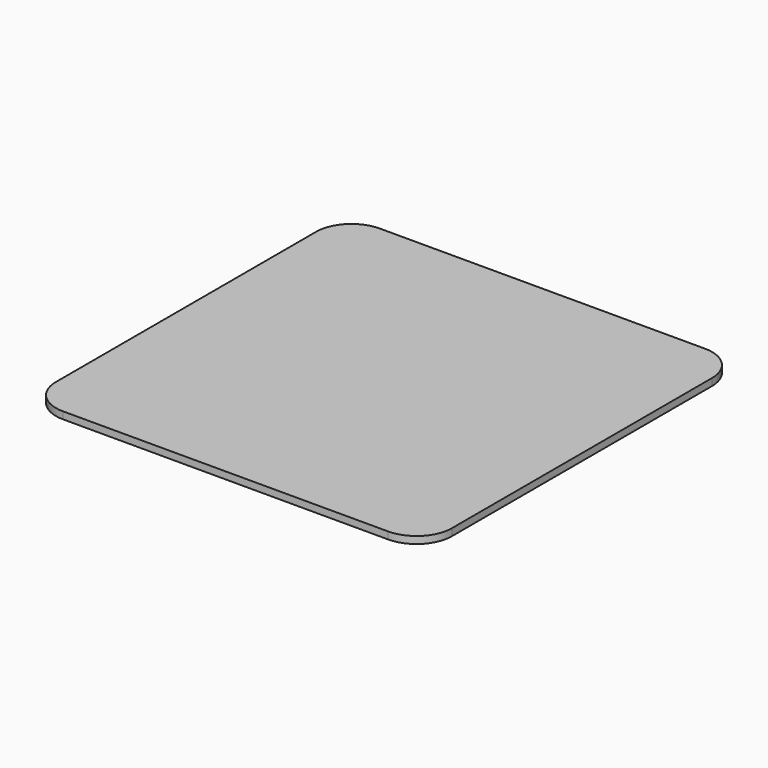
from build123d import *

# Parameters (mm, degrees)
F0_R     = 10.5
F1_DEPTH = 1
F2_R     = 10.5
F3_DEPTH = 1


with BuildPart() as f1:
    # F0 (on Top) → F1 (new body)
    with BuildSketch(Plane.XY):
        with BuildLine():
            ThreePointArc((-114.9745469093, 28.0742291808), (-117.9034790975, 35.1452969927), (-124.9745469093, 38.0742291808))
            Line((-124.9745469093, 38.0742291808), (-216.9745469093, 38.0742291808))
            ThreePointArc((-216.9745469093, 38.0742291808), (-224.0456147212, 35.1452969927), (-226.9745469093, 28.0742291808))
            Line((-226.9745469093, 28.0742291808), (-226.9745469093, -63.9257708192))
            ThreePointArc((-226.9745469093, -63.9257708192), (-224.0456147212, -70.9968386311), (-216.9745469093, -73.9257708192))
            Line((-216.9745469093, -73.9257708192), (-124.9745469093, -73.9257708192))
            ThreePointArc((-124.9745469093, -73.9257708192), (-117.9034790975, -70.9968386311), (-114.9745469093, -63.9257708192))
            Line((-114.9745469093, -63.9257708192), (-114.9745469093, 28.0742291808))
        make_face()
        with Locations((-214.898198111, -61.8065597154)):
            Circle(F0_R, mode=Mode.SUBTRACT)
        with Locations((-192.898198111, -61.8065597154)):
            Circle(F0_R, mode=Mode.SUBTRACT)
        with Locations((-214.898198111, -39.8065597154)):
            Circle(F0_R, mode=Mode.SUBTRACT)
        with Locations((-192.898198111, -39.8065597154)):
            Circle(F0_R, mode=Mode.SUBTRACT)
        with Locations((-170.898198111, -61.8065597154)):
            Circle(F0_R, mode=Mode.SUBTRACT)
        with Locations((-148.898198111, -61.8065597154)):
            Circle(F0_R, mode=Mode.SUBTRACT)
        with Locations((-126.898198111, -61.8065597154)):
            Circle(F0_R, mode=Mode.SUBTRACT)
        with Locations((-170.898198111, -39.8065597154)):
            Circle(F0_R, mode=Mode.SUBTRACT)
        with Locations((-148.898198111, -39.8065597154)):
            Circle(F0_R, mode=Mode.SUBTRACT)
        with Locations((-126.898198111, -39.8065597154)):
            Circle(F0_R, mode=Mode.SUBTRACT)
        with Locations((-214.898198111, -17.8065597154)):
            Circle(F0_R, mode=Mode.SUBTRACT)
        with Locations((-214.898198111, 4.1934402846)):
            Circle(F0_R, mode=Mode.SUBTRACT)
        with Locations((-192.898198111, -17.8065597154)):
            Circle(F0_R, mode=Mode.SUBTRACT)
        with Locations((-192.898198111, 4.1934402846)):
            Circle(F0_R, mode=Mode.SUBTRACT)
        with Locations((-214.898198111, 26.1934402846)):
            Circle(F0_R, mode=Mode.SUBTRACT)
        with Locations((-192.898198111, 26.1934402846)):
            Circle(F0_R, mode=Mode.SUBTRACT)
        with Locations((-170.898198111, -17.8065597154)):
            Circle(F0_R, mode=Mode.SUBTRACT)
        with Locations((-148.898198111, -17.8065597154)):
            Circle(F0_R, mode=Mode.SUBTRACT)
        with Locations((-170.898198111, 4.1934402846)):
            Circle(F0_R, mode=Mode.SUBTRACT)
        with Locations((-148.898198111, 4.1934402846)):
            Circle(F0_R, mode=Mode.SUBTRACT)
        with Locations((-126.898198111, -17.8065597154)):
            Circle(F0_R, mode=Mode.SUBTRACT)
        with Locations((-126.898198111, 4.1934402846)):
            Circle(F0_R, mode=Mode.SUBTRACT)
        with Locations((-170.898198111, 26.1934402846)):
            Circle(F0_R, mode=Mode.SUBTRACT)
        with Locations((-148.898198111, 26.1934402846)):
            Circle(F0_R, mode=Mode.SUBTRACT)
        with Locations((-126.898198111, 26.1934402846)):
            Circle(F0_R, mode=Mode.SUBTRACT)
    extrude(amount=F1_DEPTH)

    # F2 (on face) → F3 (join)
    with BuildSketch(Plane.XY.offset(1)):
        with BuildLine():
            ThreePointArc((-114.9745469093, 28.0742291808), (-117.9034790975, 35.1452969927), (-124.9745469093, 38.0742291808))
            Line((-124.9745469093, 38.0742291808), (-216.9745469093, 38.0742291808))
            ThreePointArc((-216.9745469093, 38.0742291808), (-224.0456147212, 35.1452969927), (-226.9745469093, 28.0742291808))
            Line((-226.9745469093, 28.0742291808), (-226.9745469093, -63.9257708192))
            ThreePointArc((-226.9745469093, -63.9257708192), (-224.0456147212, -70.9968386311), (-216.9745469093, -73.9257708192))
            Line((-216.9745469093, -73.9257708192), (-124.9745469093, -73.9257708192))
            ThreePointArc((-124.9745469093, -73.9257708192), (-117.9034790975, -70.9968386311), (-114.9745469093, -63.9257708192))
            Line((-114.9745469093, -63.9257708192), (-114.9745469093, 28.0742291808))
        make_face()
        with Locations((-214.898198111, -61.8065597154)):
            Circle(F2_R, mode=Mode.SUBTRACT)
        with Locations((-192.898198111, -61.8065597154)):
            Circle(F2_R, mode=Mode.SUBTRACT)
        with Locations((-214.898198111, -39.8065597154)):
            Circle(F2_R, mode=Mode.SUBTRACT)
        with Locations((-192.898198111, -39.8065597154)):
            Circle(F2_R, mode=Mode.SUBTRACT)
        with Locations((-170.898198111, -61.8065597154)):
            Circle(F2_R, mode=Mode.SUBTRACT)
        with Locations((-148.898198111, -61.8065597154)):
            Circle(F2_R, mode=Mode.SUBTRACT)
        with Locations((-126.898198111, -61.8065597154)):
            Circle(F2_R, mode=Mode.SUBTRACT)
        with Locations((-170.898198111, -39.8065597154)):
            Circle(F2_R, mode=Mode.SUBTRACT)
        with Locations((-148.898198111, -39.8065597154)):
            Circle(F2_R, mode=Mode.SUBTRACT)
        with Locations((-126.898198111, -39.8065597154)):
            Circle(F2_R, mode=Mode.SUBTRACT)
        with Locations((-214.898198111, -17.8065597154)):
            Circle(F2_R, mode=Mode.SUBTRACT)
        with Locations((-214.898198111, 4.1934402846)):
            Circle(F2_R, mode=Mode.SUBTRACT)
        with Locations((-192.898198111, -17.8065597154)):
            Circle(F2_R, mode=Mode.SUBTRACT)
        with Locations((-192.898198111, 4.1934402846)):
            Circle(F2_R, mode=Mode.SUBTRACT)
        with Locations((-214.898198111, 26.1934402846)):
            Circle(F2_R, mode=Mode.SUBTRACT)
        with Locations((-192.898198111, 26.1934402846)):
            Circle(F2_R, mode=Mode.SUBTRACT)
        with Locations((-170.898198111, -17.8065597154)):
            Circle(F2_R, mode=Mode.SUBTRACT)
        with Locations((-148.898198111, -17.8065597154)):
            Circle(F2_R, mode=Mode.SUBTRACT)
        with Locations((-170.898198111, 4.1934402846)):
            Circle(F2_R, mode=Mode.SUBTRACT)
        with Locations((-148.898198111, 4.1934402846)):
            Circle(F2_R, mode=Mode.SUBTRACT)
        with Locations((-126.898198111, -17.8065597154)):
            Circle(F2_R, mode=Mode.SUBTRACT)
        with Locations((-126.898198111, 4.1934402846)):
            Circle(F2_R, mode=Mode.SUBTRACT)
        with Locations((-170.898198111, 26.1934402846)):
            Circle(F2_R, mode=Mode.SUBTRACT)
        with Locations((-148.898198111, 26.1934402846)):
            Circle(F2_R, mode=Mode.SUBTRACT)
        with Locations((-126.898198111, 26.1934402846)):
            Circle(F2_R, mode=Mode.SUBTRACT)
        with BuildLine():
            ThreePointArc((-114.9745469093, 28.0742291808), (-117.9034790975, 35.1452969927), (-124.9745469093, 38.0742291808))
            Line((-124.9745469093, 38.0742291808), (-216.9745469093, 38.0742291808))
            ThreePointArc((-216.9745469093, 38.0742291808), (-224.0456147212, 35.1452969927), (-226.9745469093, 28.0742291808))
            Line((-226.9745469093, 28.0742291808), (-226.9745469093, -63.9257708192))
            ThreePointArc((-226.9745469093, -63.9257708192), (-224.0456147212, -70.9968386311), (-216.9745469093, -73.9257708192))
            Line((-216.9745469093, -73.9257708192), (-124.9745469093, -73.9257708192))
            ThreePointArc((-124.9745469093, -73.9257708192), (-117.9034790975, -70.9968386311), (-114.9745469093, -63.9257708192))
            Line((-114.9745469093, -63.9257708192), (-114.9745469093, 28.0742291808))
        make_face()
    extrude(amount=F3_DEPTH)


solid = f1.part
